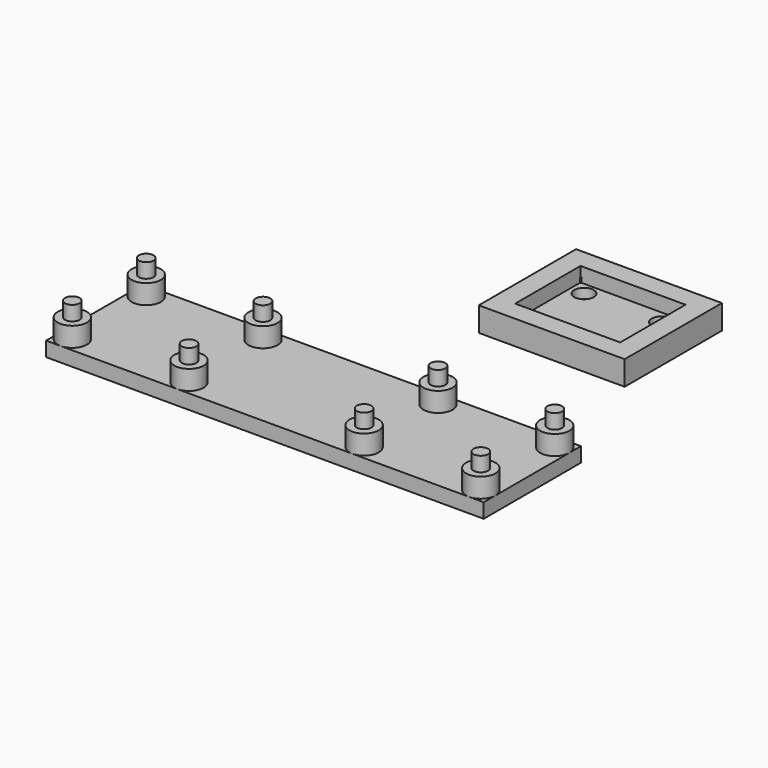
from build123d import *

# Parameters (mm, degrees)
F0_W      = 30
F0_H      = 25
F0_W_2    = 21.6
F0_H_2    = 16.8
F1_DEPTH  = 5
F2_W      = 30
F2_H      = 25
F3_DEPTH  = 2
F4_W      = 21.6
F4_H      = 4
F5_DEPTH  = 2
F6_R      = 2
F7_DEPTH  = 2
F8_W      = 90
F8_H      = 25
F9_DEPTH  = 3
F10_R     = 3
F11_DEPTH = 4
F12_R     = 1.75
F13_DEPTH = 3
F14_R     = 1.5
F15_DEPTH = 3


with BuildPart() as f1:
    # F0 (on Top) → F1 (new body)
    with BuildSketch(Plane.XY):
        Rectangle(F0_W, F0_H)
        Rectangle(F0_W_2, F0_H_2, mode=Mode.SUBTRACT)
    extrude(amount=F1_DEPTH)

    # F2 (on face) → F3 (join)
    with BuildSketch(Plane(origin=(0, 0, 0), x_dir=(1, 0, 0), z_dir=(0, 0, -1))):
        Rectangle(F2_W, F2_H)
    extrude(amount=-F3_DEPTH)

    # F4 (on face) → F5 (cut, through all)
    with BuildSketch(Plane.XY.offset(2)):
        with Locations((0, -6.4)):
            Rectangle(F4_W, F4_H)
    extrude(amount=-F5_DEPTH, mode=Mode.SUBTRACT)

    # F6 (on face) → F7 (cut, through all)
    with BuildSketch(Plane.XY.offset(2)):
        with Locations((-7.95, 5.75)):
            Circle(F6_R)
        with Locations((7.95, 5.75)):
            Circle(F6_R)
    extrude(amount=-F7_DEPTH, mode=Mode.SUBTRACT)

    # F12 (on face) → F13 (cut)
    with BuildSketch(Plane(origin=(0, 0, 0), x_dir=(1, 0, 0), z_dir=(0, 0, -1))):
        with Locations((-12, 9.5)):
            Circle(F12_R)
        with Locations((12, 9.5)):
            Circle(F12_R)
        with Locations((12, -9.5)):
            Circle(F12_R)
        with Locations((-12, -9.5)):
            Circle(F12_R)
    extrude(amount=-F13_DEPTH, mode=Mode.SUBTRACT)


with BuildPart() as f9:
    # F8 (on Top) → F9 (new body)
    with BuildSketch(Plane.XY):
        with Locations((-18.987547, -49.992754)):
            Rectangle(F8_W, F8_H)
    extrude(amount=F9_DEPTH)

    # F10 (on face) → F11 (join)
    with BuildSketch(Plane.XY.offset(3)):
        with Locations((-60.987547, -40.492754)):
            Circle(F10_R)
        with Locations((-36.987547, -40.492754)):
            Circle(F10_R)
        with Locations((-36.987547, -59.492754)):
            Circle(F10_R)
        with Locations((-60.987547, -59.492754)):
            Circle(F10_R)
        with Locations((-0.987547, -40.492754)):
            Circle(F10_R)
        with Locations((-0.987547, -59.492754)):
            Circle(F10_R)
        with Locations((23.012453, -40.492754)):
            Circle(F10_R)
        with Locations((23.012453, -59.492754)):
            Circle(F10_R)
    extrude(amount=F11_DEPTH)

    # F14 (on face) → F15 (join)
    with BuildSketch(Plane.XY.offset(7)):
        with Locations((-60.987547, -40.492754)):
            Circle(F14_R)
        with Locations((-60.987547, -59.492754)):
            Circle(F14_R)
        with Locations((-36.987547, -40.492754)):
            Circle(F14_R)
        with Locations((-36.987547, -59.492754)):
            Circle(F14_R)
        with Locations((-0.987547, -40.492754)):
            Circle(F14_R)
        with Locations((-0.987547, -59.492754)):
            Circle(F14_R)
        with Locations((23.012453, -40.492754)):
            Circle(F14_R)
        with Locations((23.012453, -59.492754)):
            Circle(F14_R)
    extrude(amount=F15_DEPTH)


solid = Compound([f1.part, f9.part])
